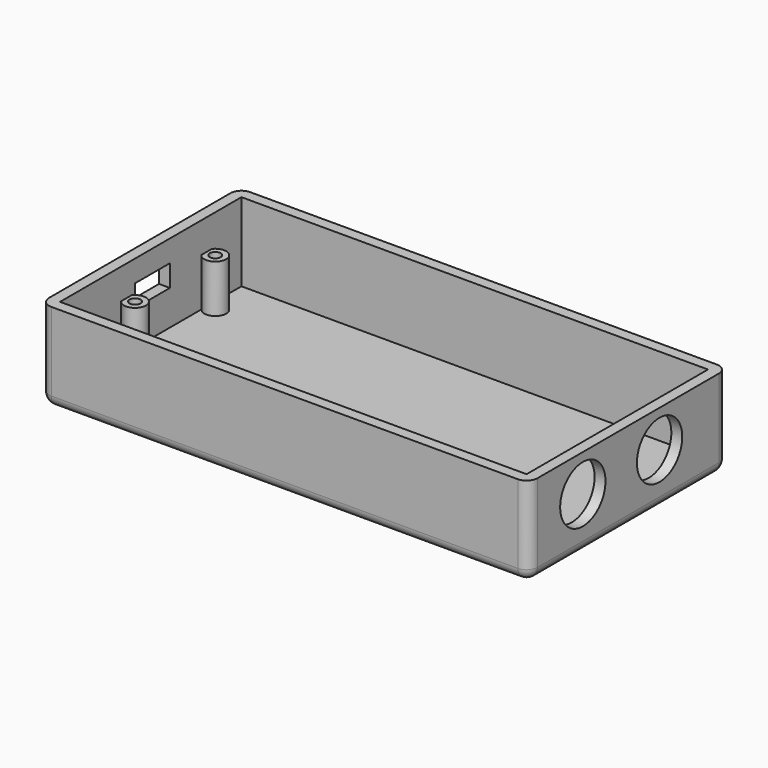
from build123d import *

# Parameters (mm, degrees)
SKETCH_W        = 107
SKETCH_H        = 52
PAD_DEPTH       = 18
THICKNESS_T     = 2.5
SKETCH001_R     = 6.5
POCKET_DEPTH    = 5
SKETCH002_W     = 10
SKETCH002_H     = 5
POCKET001_DEPTH = 5
SKETCH003_R     = 2.5
SKETCH003_R_2   = 1.25
PAD001_DEPTH    = 11


with BuildPart() as part:
    # Sketch → Pad (new body)
    with BuildSketch(Plane.XY):
        Rectangle(SKETCH_W, SKETCH_H)
    extrude(amount=PAD_DEPTH)

    # Thickness
    thickness_openings = [part.faces().sort_by_distance(p)[0] for p in [
        (0, 0, 18),
    ]]
    offset(amount=THICKNESS_T, openings=thickness_openings)

    # Sketch001 (on DatumPlane) → Pocket (cut)
    with BuildSketch(Plane(origin=(53.5, 0, 0), x_dir=(0, -1, 0), z_dir=(-1, 0, 0))):
        with Locations((-9, 9.5)):
            Circle(SKETCH001_R)
        with Locations((13, 9.5)):
            Circle(SKETCH001_R)
    extrude(amount=-POCKET_DEPTH, mode=Mode.SUBTRACT)

    # Sketch002 (on DatumPlane) → Pocket001 (cut)
    with BuildSketch(Plane.YZ.offset(-53.5)):
        with Locations((0.5, 10.5)):
            Rectangle(SKETCH002_W, SKETCH002_H)
    extrude(amount=-POCKET001_DEPTH, mode=Mode.SUBTRACT)

    # Sketch003 (on DatumPlane) → Pad001 (join)
    with BuildSketch(Plane.XY):
        with Locations((-51.5, 16)):
            Circle(SKETCH003_R)
        with Locations((-51.5, 16)):
            Circle(SKETCH003_R_2, mode=Mode.SUBTRACT)
        with Locations((-51.5, -7)):
            Circle(SKETCH003_R)
        with Locations((-51.5, -7)):
            Circle(SKETCH003_R_2, mode=Mode.SUBTRACT)
    extrude(amount=PAD001_DEPTH)


solid = part.part
